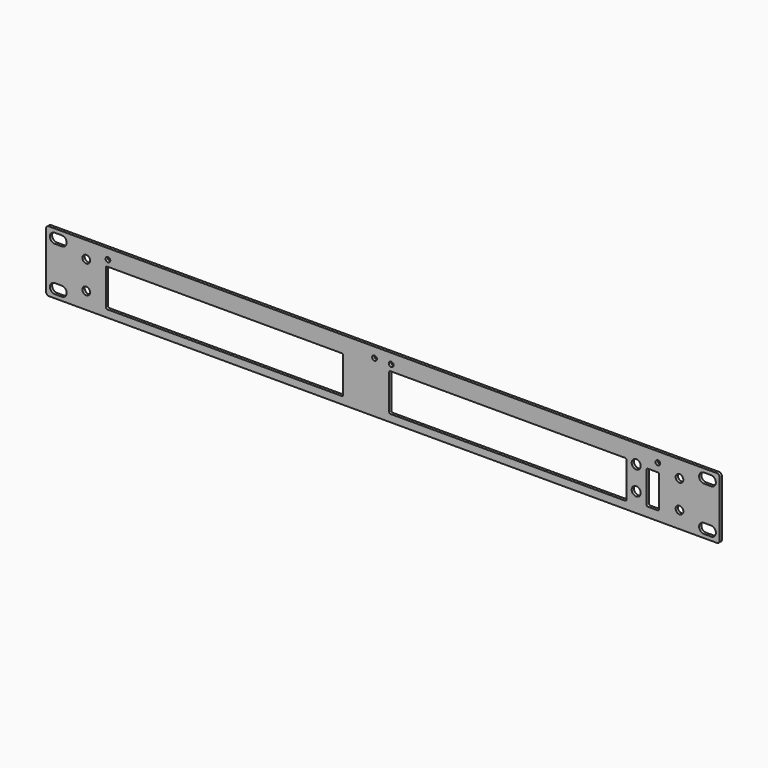
from build123d import *

# Parameters (mm, degrees)
SKETCH_W            = 482.6
SKETCH_H            = 44
PAD_DEPTH           = 2
POCKET_DEPTH        = 2.001
SKETCH002_R         = 2.75
HOLE_DEPTH          = 2.001
SKETCH003_R         = 1.7
HOLE001_DEPTH       = 2.001
SKETCH004_W         = 170
SKETCH004_H         = 27
POCKET001_DEPTH     = 2.001
LINEARPATTERN_COUNT = 2
LINEARPATTERN_PITCH = 203
SKETCH005_R         = 3.25
POCKET002_DEPTH     = 2.001
SKETCH006_W         = 9
SKETCH006_H         = 24
POCKET003_DEPTH     = 2.001
FILLET_R            = 1
FILLET001_R         = 2


with BuildPart() as part:
    # Sketch → Pad (new body)
    with BuildSketch(Plane.XZ):
        with Locations((241.3, -22)):
            Rectangle(SKETCH_W, SKETCH_H)
    extrude(amount=PAD_DEPTH)

    # Sketch001 (on Face6 of Pad) → Pocket (cut, through all)
    with BuildSketch(Plane.XZ.offset(2)):
        with BuildLine():
            ThreePointArc((471.35, -34.375), (467.85, -37.875), (471.35, -41.375))
            Line((471.35, -41.375), (476.35, -41.375))
            ThreePointArc((476.35, -41.375), (479.85, -37.875), (476.35, -34.375))
            Line((471.35, -34.375), (476.35, -34.375))
        make_face()
        with BuildLine():
            ThreePointArc((6.25, -34.375), (2.75, -37.875), (6.25, -41.375))
            Line((6.25, -41.375), (11.25, -41.375))
            ThreePointArc((11.25, -41.375), (14.75, -37.875), (11.25, -34.375))
            Line((6.25, -34.375), (11.25, -34.375))
        make_face()
        with BuildLine():
            ThreePointArc((471.35, -2.625), (467.85, -6.125), (471.35, -9.625))
            Line((471.35, -9.625), (476.35, -9.625))
            ThreePointArc((476.35, -9.625), (479.85, -6.125), (476.35, -2.625))
            Line((471.35, -2.625), (476.35, -2.625))
        make_face()
        with BuildLine():
            ThreePointArc((6.25, -2.625), (2.75, -6.125), (6.25, -9.625))
            Line((6.25, -9.625), (11.25, -9.625))
            ThreePointArc((11.25, -9.625), (14.75, -6.125), (11.25, -2.625))
            Line((6.25, -2.625), (11.25, -2.625))
        make_face()
    extrude(amount=-POCKET_DEPTH, mode=Mode.SUBTRACT)

    # Sketch002 (on Face5 of Pocket) → Hole (cut, through all)
    with BuildSketch(Plane.XZ.offset(2)):
        with Locations((28.8, -12)):
            Circle(SKETCH002_R)
        with Locations((28.8, -32)):
            Circle(SKETCH002_R)
        with Locations((453.8, -12)):
            Circle(SKETCH002_R)
        with Locations((453.8, -32)):
            Circle(SKETCH002_R)
    extrude(amount=-HOLE_DEPTH, mode=Mode.SUBTRACT)

    # Sketch003 (on Face5 of Hole) → Hole001 (cut, through all)
    with BuildSketch(Plane.XZ.offset(2)):
        with Locations((438.3, -7.25)):
            Circle(SKETCH003_R)
        with Locations((247.3, -7.25)):
            Circle(SKETCH003_R)
        with Locations((235.3, -7.25)):
            Circle(SKETCH003_R)
        with Locations((44.3, -7.25)):
            Circle(SKETCH003_R)
    extrude(amount=-HOLE001_DEPTH, mode=Mode.SUBTRACT)

    # Sketch004 (on Face5 of Hole001) → Pocket001 (cut, through all)
    with BuildSketch(Plane.XZ.offset(2)):
        with Locations((127.8, -25.25)):
            Rectangle(SKETCH004_W, SKETCH004_H)
    pocket001 = extrude(amount=-POCKET001_DEPTH, mode=Mode.SUBTRACT)

    # LinearPattern: Pocket001 ×2
    with Locations(*[(i * LINEARPATTERN_PITCH, 0, 0) for i in range(1, LINEARPATTERN_COUNT)]):
        add(pocket001, mode=Mode.SUBTRACT)

    # Sketch005 (on Face5 of LinearPattern) → Pocket002 (cut, through all)
    with BuildSketch(Plane.XZ.offset(2)):
        with Locations((422.8, -13.25)):
            Circle(SKETCH005_R)
        with Locations((422.8, -30.25)):
            Circle(SKETCH005_R)
    extrude(amount=-POCKET002_DEPTH, mode=Mode.SUBTRACT)

    # Sketch006 (on Face5 of Pocket002) → Pocket003 (cut, through all)
    with BuildSketch(Plane.XZ.offset(2)):
        with Locations((434.7, -25.25)):
            Rectangle(SKETCH006_W, SKETCH006_H)
    extrude(amount=-POCKET003_DEPTH, mode=Mode.SUBTRACT)

    # Fillet
    fillet_edges = [part.edges().sort_by_distance(p)[0] for p in [
        (439.2, -1, -13.25),
        (430.2, -1, -13.25),
        (430.2, -1, -37.25),
        (439.2, -1, -37.25),
        (415.8, -1, -11.75),
        (415.8, -1, -38.75),
        (245.8, -1, -11.75),
        (245.8, -1, -38.75),
        (42.8, -1, -38.75),
        (42.8, -1, -11.75),
        (212.8, -1, -11.75),
        (212.8, -1, -38.75),
    ]]
    fillet(fillet_edges, radius=FILLET_R)

    # Fillet001
    fillet001_edges = [part.edges().sort_by_distance(p)[0] for p in [
        (482.6, -1, -44),
        (482.6, -1, 0),
        (0, -1, -44),
        (0, -1, 0),
    ]]
    fillet(fillet001_edges, radius=FILLET001_R)


solid = part.part
